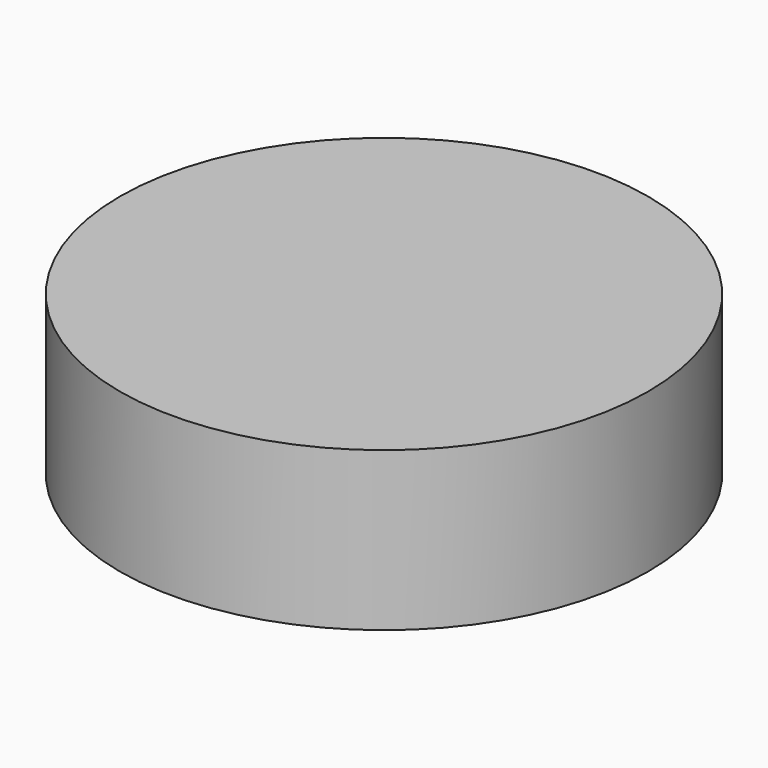
from build123d import *

# Parameters (mm, degrees)
SKETCH_R       = 25
PAD_DEPTH      = 10
PAD_DEPTH_BACK = 5


with BuildPart() as part:
    # Sketch → Pad (new body, two sides)
    with BuildSketch(Plane.XY) as pad_sk:
        Circle(SKETCH_R)
    extrude(amount=PAD_DEPTH)
    extrude(pad_sk.sketch, amount=-PAD_DEPTH_BACK)


solid = part.part
